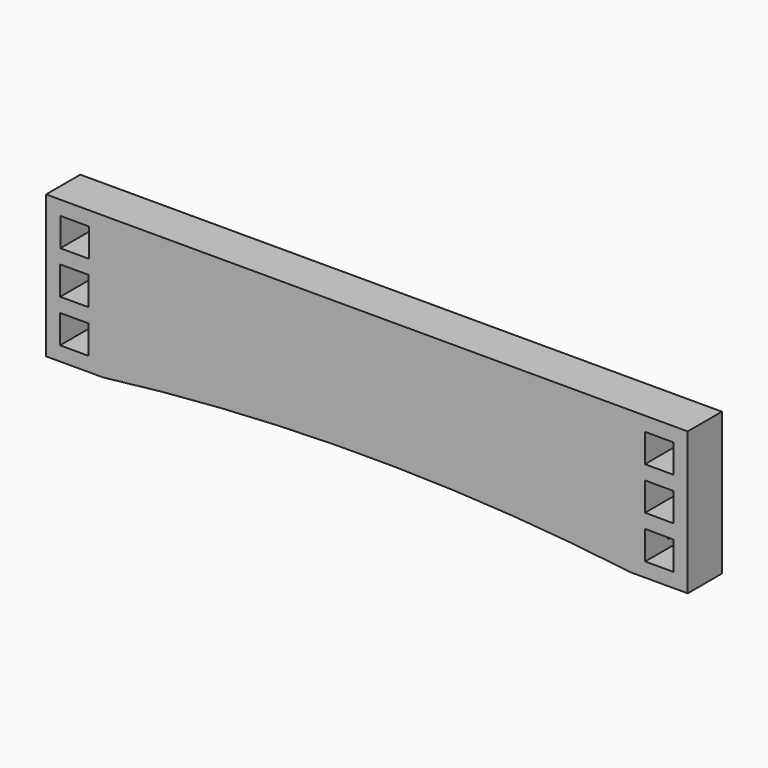
from build123d import *

# Parameters (mm, degrees)
F0_W     = 10
F0_H     = 10
F1_DEPTH = 15
F2_W     = 195.204562
F2_H     = 4
F3_DEPTH = 5


with BuildPart() as f1:
    # F0 (on Front) → F1 (new body)
    with BuildSketch(Plane.XZ):
        with BuildLine():
            Line((-112.5, 25), (-112.5, -25))
            Line((-112.5, -25), (-92.5, -25))
            ThreePointArc((-92.5, -25), (0, -19.273975), (92.5, -25))
            Line((92.5, -25), (112.5, -25))
            Line((112.5, -25), (112.5, 25))
            Line((112.5, 25), (-112.5, 25))
        make_face()
        Polygon((-107.602281, -20), (-107.602281, -10), (-97.602281, -9.970237), (-97.602281, -20), align=None, mode=Mode.SUBTRACT)
        Polygon((97.602281, -9.970237), (107.602281, -10), (107.602281, -20), (97.602281, -20), align=None, mode=Mode.SUBTRACT)
        Polygon((-107.551141, -4.999913), (-107.551141, 5.000087), (-97.551185, 5.000087), (-97.551185, -4.97015), align=None, mode=Mode.SUBTRACT)
        with Locations((-102.5, 15)):
            Rectangle(F0_W, F0_H, mode=Mode.SUBTRACT)
        Polygon((97.551185, 5.000087), (107.551141, 5.000087), (107.551141, -4.999913), (97.551185, -4.97015), align=None, mode=Mode.SUBTRACT)
        with Locations((102.5, 15)):
            Rectangle(F0_W, F0_H, mode=Mode.SUBTRACT)
    extrude(amount=F1_DEPTH)

    # F2 (on face) → F3 (cut)
    with BuildSketch(Plane(origin=(0, 0, 0), x_dir=(-1, 0, 0), z_dir=(0, 1, 0))):
        with Locations((0, -15.230045)):
            Rectangle(F2_W, F2_H)
    extrude(amount=-F3_DEPTH, mode=Mode.SUBTRACT)


solid = f1.part
